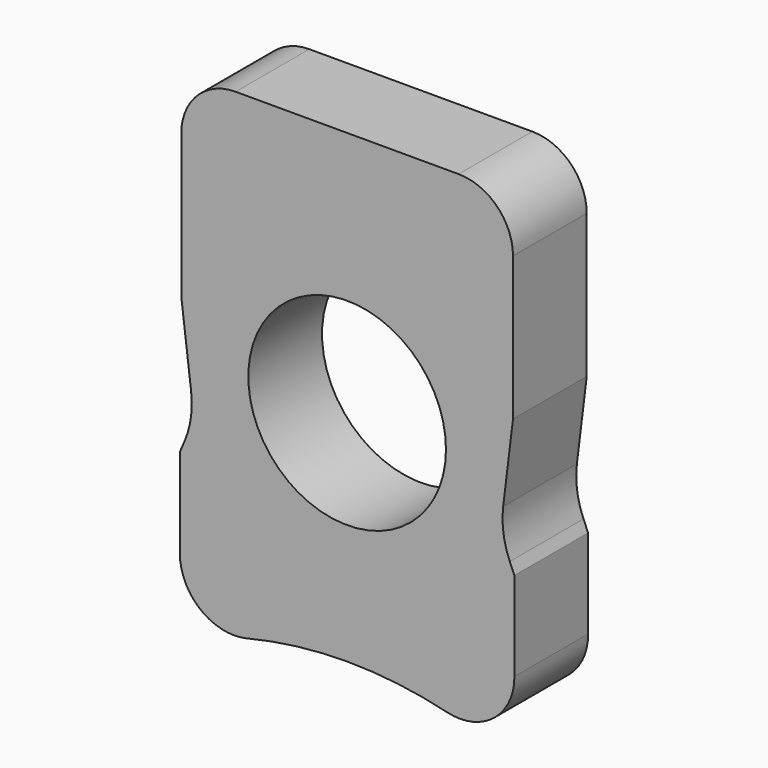
from build123d import *

# Parameters (mm, degrees)
F0_R     = 21.45
F1_DEPTH = 20


with BuildPart() as f1:
    # F0 (on Front) → F1 (new body)
    with BuildSketch(Plane.XZ):
        with BuildLine():
            Line((24.2, 53.5), (-24.2, 53.5))
            ThreePointArc((-24.2, 53.5), (-32.54386, 50.04386), (-36, 41.7))
            Line((-36, 41.7), (-36, 10.541781))
            Line((-36, 10.541781), (-33.86535, -6.843548))
            ThreePointArc((-33.86535, -6.843548), (-33.914779, -11.969259), (-35.298202, -16.904995))
            Line((-35.298202, -16.904995), (-36.299529, -19.24014))
            Line((-36.299529, -19.24014), (-36.299529, -38.57162))
            ThreePointArc((-36.299529, -38.57162), (-31.817885, -47.933904), (-21.673998, -50.133694))
            ThreePointArc((-21.673998, -50.133694), (-10.916713, -48.160836), (0, -47.5))
            ThreePointArc((0, -47.5), (10.916713, -48.160836), (21.673998, -50.133694))
            ThreePointArc((21.673998, -50.133694), (31.817885, -47.933904), (36.299529, -38.57162))
            Line((36.299529, -38.57162), (36.299529, -19.24014))
            Line((36.299529, -19.24014), (35.298202, -16.904995))
            ThreePointArc((35.298202, -16.904995), (33.914779, -11.969259), (33.86535, -6.843548))
            Line((33.86535, -6.843548), (36, 10.541781))
            Line((36, 10.541781), (36, 41.7))
            ThreePointArc((36, 41.7), (32.54386, 50.04386), (24.2, 53.5))
        make_face()
        Circle(F0_R, mode=Mode.SUBTRACT)
    extrude(amount=F1_DEPTH)


solid = f1.part
